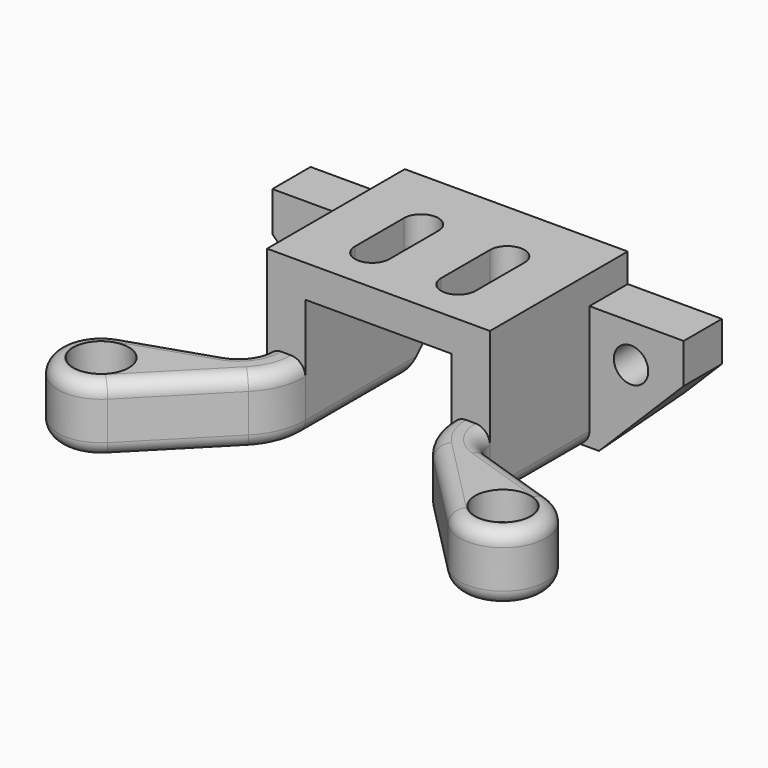
from build123d import *

# Parameters (mm, degrees)
SKETCH_R        = 1.8
PAD_DEPTH       = 7
SKETCH001_R     = 2.9
POCKET_DEPTH    = 3
SKETCH002_W     = 9.85
SKETCH002_H     = 5
PAD001_DEPTH    = 6
SKETCH005_R     = 1.8
POCKET002_DEPTH = 5
SKETCH003_W     = 23.3
SKETCH003_H     = 18
PAD002_DEPTH    = 9
SKETCH004_W     = 15.3
SKETCH004_H     = 18
POCKET001_DEPTH = 12.6
POCKET003_DEPTH = 47.001
POCKET004_DEPTH = 5
POCKET005_DEPTH = 16.001
FILLET_R        = 1.5


with BuildPart() as part:
    # Sketch → Pad (new body)
    with BuildSketch(Plane.XY):
        with BuildLine():
            Line((-21.5, 0), (-21.5, -5))
            Line((-21.5, -5), (-11.65, -5))
            Line((-11.65, -5), (-11.65, -18))
            ThreePointArc((-13.707898, -20.848235), (-12.218302, -19.756942), (-11.65, -18))
            Line((-13.707898, -20.848235), (-22.413154, -23.727647))
            ThreePointArc((-22.413154, -23.727647), (-24.822377, -30.374749), (-17.795838, -31.159643))
            Line((-9.665748, -22.915), (-17.795838, -31.159643))
            ThreePointArc((-9.665748, -22.915), (-8.173513, -20.656147), (-7.65, -18))
            Line((-7.65, -18), (7.65, -18))
            ThreePointArc((7.65, -18), (8.173513, -20.656147), (9.665748, -22.915))
            Line((9.665748, -22.915), (17.795838, -31.159643))
            ThreePointArc((17.795838, -31.159643), (24.822377, -30.374749), (22.413154, -23.727647))
            Line((13.707898, -20.848235), (22.413154, -23.727647))
            ThreePointArc((11.65, -18), (12.218302, -19.756942), (13.707898, -20.848235))
            Line((11.65, -5), (11.65, -18))
            Line((21.5, -5), (11.65, -5))
            Line((21.5, -5), (21.5, 0))
            Line((21.5, 0), (-21.5, 0))
        make_face()
        with Locations((-21, -28)):
            Circle(SKETCH_R, mode=Mode.SUBTRACT)
        with Locations((21, -28)):
            Circle(SKETCH_R, mode=Mode.SUBTRACT)
    extrude(amount=PAD_DEPTH)

    # Sketch001 (on Face22 of Pad) → Pocket (cut)
    with BuildSketch(Plane.XY.offset(7)):
        with Locations((-21, -28)):
            Circle(SKETCH001_R)
        with Locations((21, -28)):
            Circle(SKETCH001_R)
    extrude(amount=-POCKET_DEPTH, mode=Mode.SUBTRACT)

    # Sketch002 (on Face5 of Pocket) → Pad001 (join)
    with BuildSketch(Plane.XY.offset(7)):
        with Locations((16.575, -2.5)):
            Rectangle(SKETCH002_W, SKETCH002_H)
        with Locations((-16.575, -2.5)):
            Rectangle(SKETCH002_W, SKETCH002_H)
    extrude(amount=PAD001_DEPTH)

    # Sketch005 (on Face29 of Pad001) → Pocket002 (cut)
    with BuildSketch(Plane(origin=(0, 0, 0), x_dir=(-1, 0, 0), z_dir=(0, 1, 0))):
        with Locations((-16, 9)):
            Circle(SKETCH005_R)
        with Locations((16, 9)):
            Circle(SKETCH005_R)
    extrude(amount=-POCKET002_DEPTH, mode=Mode.SUBTRACT)

    # Sketch003 (on Face3 of Pad001) → Pad002 (join)
    with BuildSketch(Plane.XY.offset(7)):
        with Locations((0, -9)):
            Rectangle(SKETCH003_W, SKETCH003_H)
    extrude(amount=PAD002_DEPTH)

    # Sketch004 (on Face1 of Pad002) → Pocket001 (cut)
    with BuildSketch(Plane(origin=(0, 0, 0), x_dir=(1, 0, 0), z_dir=(0, 0, -1))):
        with Locations((0, 9)):
            Rectangle(SKETCH004_W, SKETCH004_H)
    extrude(amount=-POCKET001_DEPTH, mode=Mode.SUBTRACT)

    # Sketch006 (on Face21 of Pocket001) → Pocket003 (cut, through all)
    with BuildSketch(Plane(origin=(-21.5, 0, 0), x_dir=(0, -1, 0), z_dir=(-1, 0, 0))):
        Polygon((5, 0), (0, 0), (0, 5), align=None)
    extrude(amount=-POCKET003_DEPTH, mode=Mode.SUBTRACT)

    # Sketch007 (on Face1 of Pocket003) → Pocket004 (cut)
    with BuildSketch(Plane.XZ.offset(5)):
        Polygon((-21.5, 0), (-21.5, 8.85), (-12.65, 0), align=None)
        Polygon((21.5, 0), (21.5, 8.85), (12.65, 0), align=None)
    extrude(amount=-POCKET004_DEPTH, mode=Mode.SUBTRACT)

    # Sketch008 (on Face11 of Pocket004) → Pocket005 (cut, through all)
    with BuildSketch(Plane.XY.offset(16)):
        with BuildLine():
            ThreePointArc((-2.7, -6.8), (-4.5, -5), (-6.3, -6.8))
            Line((-6.3, -6.8), (-6.3, -13.2))
            ThreePointArc((-6.3, -13.2), (-4.5, -15), (-2.7, -13.2))
            Line((-2.7, -6.8), (-2.7, -13.2))
        make_face()
        with BuildLine():
            ThreePointArc((6.3, -6.8), (4.5, -5), (2.7, -6.8))
            Line((2.7, -6.8), (2.7, -13.2))
            ThreePointArc((2.7, -13.2), (4.5, -15), (6.3, -13.2))
            Line((6.3, -6.8), (6.3, -13.2))
        make_face()
    extrude(amount=-POCKET005_DEPTH, mode=Mode.SUBTRACT)

    # Fillet
    fillet_edges = [part.edges().sort_by_distance(p)[0] for p in [
        (-7.65, -11.5, 0),
        (7.65, -11.5, 0),
        (-13.730793, -27.037322, 7),
        (13.730793, -27.037322, 7),
    ]]
    fillet(fillet_edges, radius=FILLET_R)


solid = part.part
